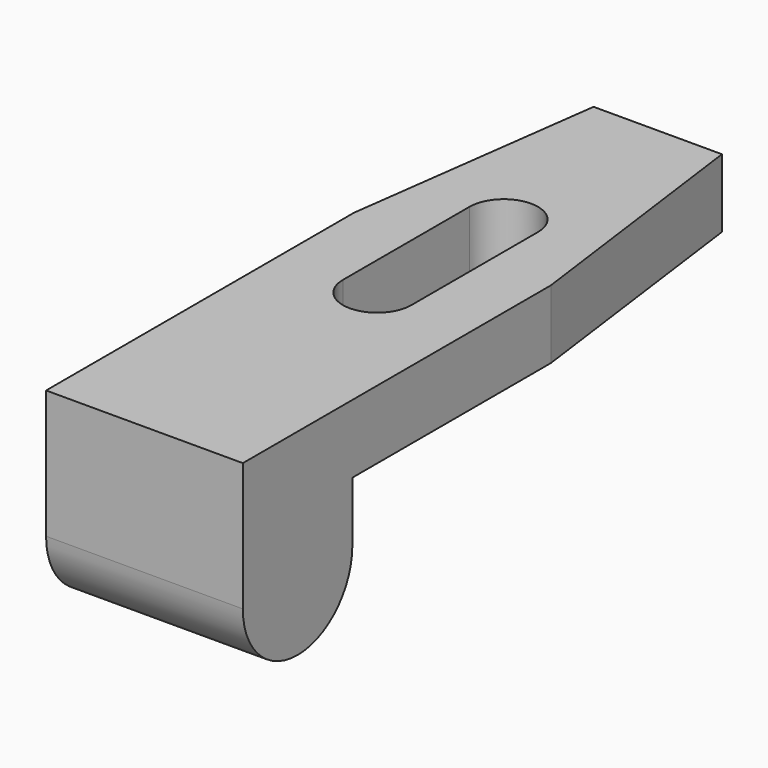
from build123d import *

# Parameters (mm, degrees)
F1_DEPTH = 46
F3_DEPTH = 25
F5_DEPTH = 25


with BuildPart() as f1:
    # F0 (on Right) → F1 (new body)
    with BuildSketch(Plane.YZ):
        with BuildLine():
            Line((76.981132, -29.915097), (76.981132, -13.915097))
            Line((76.981132, -13.915097), (-41.018868, -13.915097))
            Line((-41.018868, -13.915097), (-73.018868, -13.915097))
            Line((-73.018868, -13.915097), (-73.018868, -29.915097))
            Line((-73.018868, -29.915097), (-73.018868, -43.915097))
            ThreePointArc((-73.018868, -43.915097), (-57.018868, -59.915097), (-41.018868, -43.915097))
            Line((-41.018868, -43.915097), (-41.018868, -29.915097))
            Line((-41.018868, -29.915097), (76.981132, -29.915097))
        make_face()
    extrude(amount=F1_DEPTH)

    # F2 (on face) → F3 (cut)
    with BuildSketch(Plane.XY.offset(-13.915097)):
        Polygon((46, 76.981132), (38, 76.981132), (46, 16.981132), align=None)
        Polygon((0, 16.981132), (7.994875, 76.981132), (0, 76.981132), align=None)
    extrude(amount=-F3_DEPTH, mode=Mode.SUBTRACT)

    # F4 (on face) → F5 (cut)
    with BuildSketch(Plane.XY.offset(-13.915097)):
        with BuildLine():
            ThreePointArc((31, 31.981132), (23, 39.981132), (15, 31.981132))
            Line((15, 31.981132), (15, -5.018868))
            ThreePointArc((15, -5.018868), (23, -13.018868), (31, -5.018868))
            Line((31, -5.018868), (31, 31.981132))
        make_face()
    extrude(amount=-F5_DEPTH, mode=Mode.SUBTRACT)


solid = f1.part
